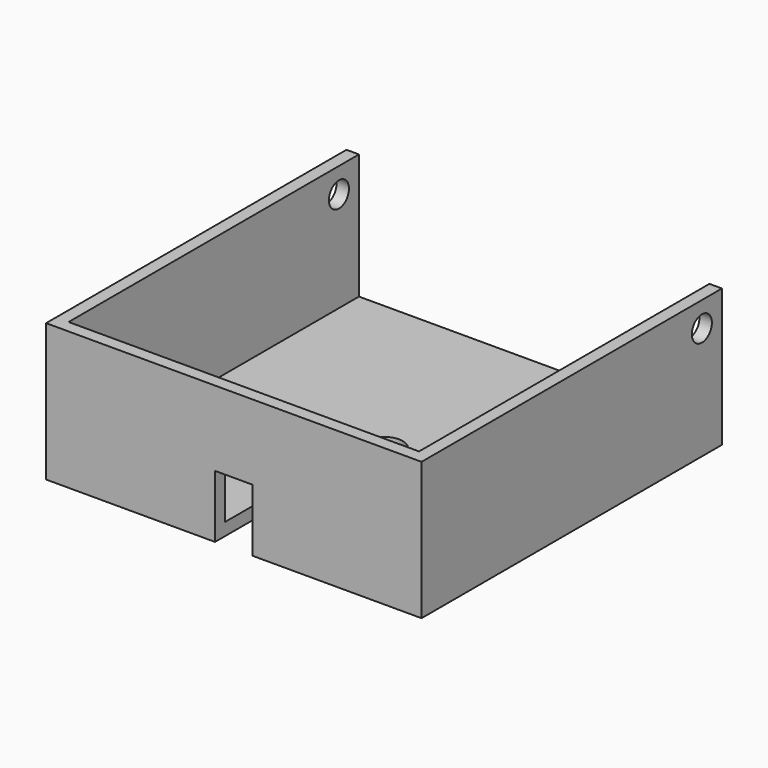
from build123d import *

# Parameters (mm, degrees)
F0_W     = 60
F0_H     = 60
F1_DEPTH = 2
F3_DEPTH = 20
F5_DEPTH = 10
F6_R     = 2
F7_DEPTH = 69.4


with BuildPart() as f1:
    # F0 (on Top) → F1 (new body)
    with BuildSketch(Plane.XY):
        with Locations((30, 30)):
            Rectangle(F0_W, F0_H)
    extrude(amount=F1_DEPTH)

    # F2 (on face) → F3 (join)
    with BuildSketch(Plane.XY.offset(2)):
        Polygon((58, 2), (2, 2), (2, 60), (0, 60), (0, 0), (60, 0), (60, 60), (58, 60), align=None)
    extrude(amount=F3_DEPTH)

    # F4 (on face) → F5 (cut)
    with BuildSketch(Plane(origin=(0, 0, 0), x_dir=(1, 0, 0), z_dir=(0, 0, -1))):
        with BuildLine():
            Line((33, 2.964752), (27, 2.964752))
            Line((27, 2.964752), (27, -30))
            ThreePointArc((27, -30), (30, -33), (33, -30))
            Line((33, -30), (33, 2.964752))
        make_face()
    extrude(amount=-F5_DEPTH, mode=Mode.SUBTRACT)

    # F6 (on face) → F7 (cut)
    with BuildSketch(Plane(origin=(0, 0, 0), x_dir=(0, -1, 0), z_dir=(-1, 0, 0))):
        with Locations((-56, 18)):
            Circle(F6_R)
    extrude(amount=-F7_DEPTH, mode=Mode.SUBTRACT)


solid = f1.part
